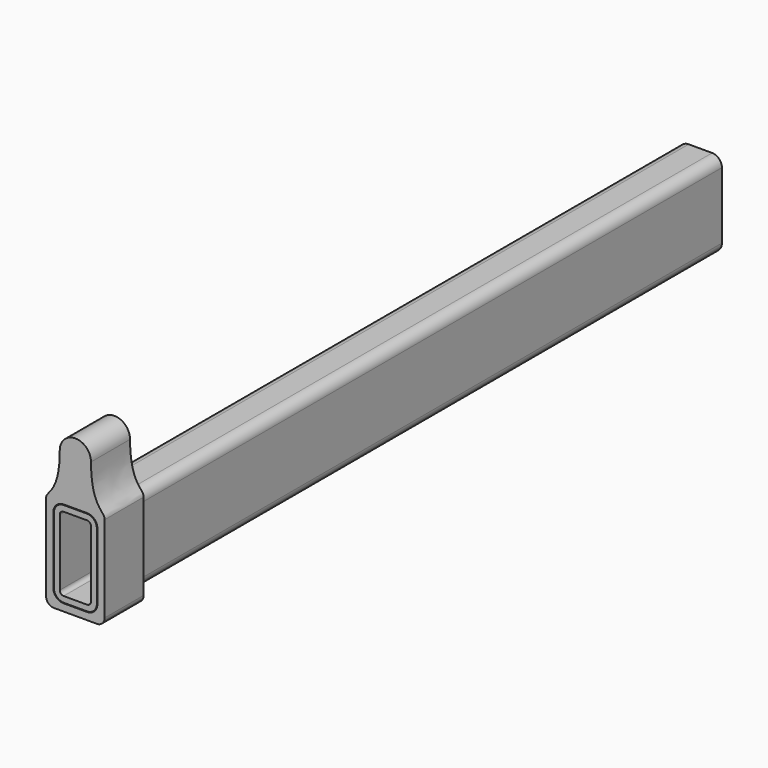
from build123d import *

# Parameters (mm, degrees)
F1_DEPTH = 400
F3_DEPTH = 25


with BuildPart() as f1:
    # F0 (on Front) → F1 (new body)
    with BuildSketch(Plane.XZ):
        with BuildLine():
            Line((6, 22), (-6, 22))
            ThreePointArc((-6, 22), (-9.535534, 20.535534), (-11, 17))
            Line((-11, 17), (-11, -17))
            ThreePointArc((-11, -17), (-9.535534, -20.535534), (-6, -22))
            Line((-6, -22), (6, -22))
            ThreePointArc((6, -22), (9.535534, -20.535534), (11, -17))
            Line((11, -17), (11, 17))
            ThreePointArc((11, 17), (9.535534, 20.535534), (6, 22))
        make_face()
        with BuildLine():
            ThreePointArc((-8, 17), (-7.414214, 18.414214), (-6, 19))
            Line((-6, 19), (6, 19))
            ThreePointArc((6, 19), (7.414214, 18.414214), (8, 17))
            Line((8, 17), (8, -17))
            ThreePointArc((8, -17), (7.414214, -18.414214), (6, -19))
            Line((6, -19), (-6, -19))
            ThreePointArc((-6, -19), (-7.414214, -18.414214), (-8, -17))
            Line((-8, -17), (-8, 17))
        make_face(mode=Mode.SUBTRACT)
    extrude(amount=-F1_DEPTH)


with BuildPart() as f3:
    # F2 (on Front) → F3 (new body)
    with BuildSketch(Plane.XZ):
        with BuildLine():
            ThreePointArc((-15, -22), (-13.828427, -24.828427), (-11, -26))
            Line((-11, -26), (11, -26))
            ThreePointArc((11, -26), (13.828427, -24.828427), (15, -22))
            Line((15, -22), (15, 22.3))
            add(Edge.make_bspline(
                [(15, 22.3), (15, 26), (8, 26), (8, 46)],
                knots=[0, 0, 0, 0, 24.712143, 24.712143, 24.712143, 24.712143], degree=3))
            ThreePointArc((8, 46), (0, 54), (-8, 46))
            add(Edge.make_bspline(
                [(-15, 22.3), (-15, 26), (-8, 26), (-8, 46)],
                knots=[0, 0, 0, 0, 24.712143, 24.712143, 24.712143, 24.712143], degree=3))
            Line((-15, 22.3), (-15, -22))
        make_face()
        with BuildLine():
            ThreePointArc((6, 22.3), (9.747666, 20.747666), (11.3, 17))
            Line((11.3, 17), (11.3, -17))
            ThreePointArc((11.3, -17), (9.747666, -20.747666), (6, -22.3))
            Line((6, -22.3), (-6, -22.3))
            ThreePointArc((-6, -22.3), (-9.747666, -20.747666), (-11.3, -17))
            Line((-11.3, -17), (-11.3, 17))
            ThreePointArc((-11.3, 17), (-9.747666, 20.747666), (-6, 22.3))
            Line((-6, 22.3), (6, 22.3))
        make_face(mode=Mode.SUBTRACT)
    extrude(amount=-F3_DEPTH)


solid = Compound([f1.part, f3.part])
